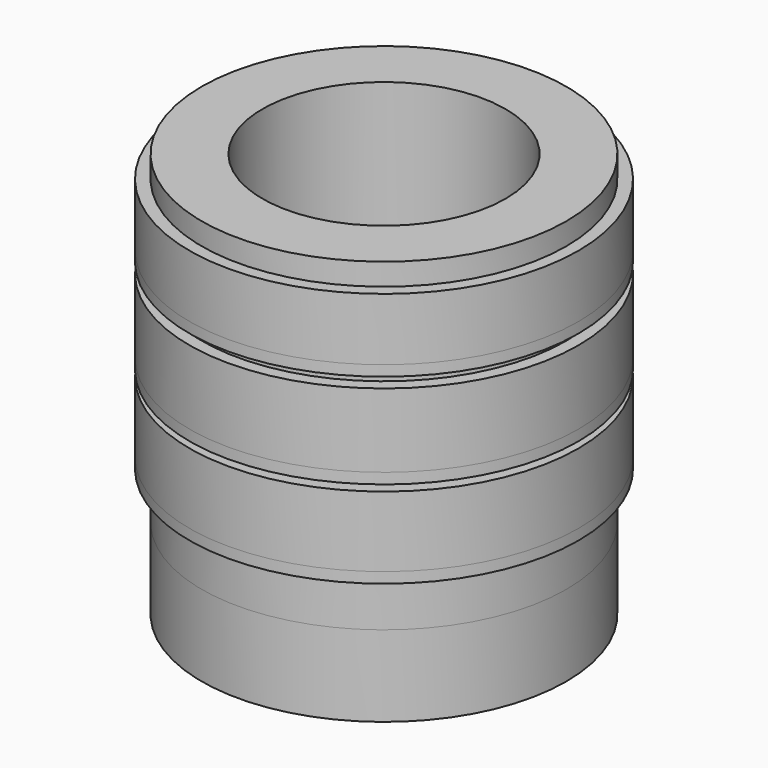
from build123d import *

# Parameters (mm, degrees)
F0_W   = 0.15
F0_H   = 0.861064
F0_H_2 = 0.869423
F0_H_3 = 0.911222
F2_W   = 0.15
F2_H   = 0.769407
F2_H_2 = 0.869423
F2_H_3 = 0.911223


with BuildPart() as f1:
    # F0 (on Front) → F1 (revolve)
    with BuildSketch(Plane.XZ):
        Polygon((2.25, 0), (1.5, 0), (1.5, -5), (2.25, -5), (2.25, -3.420459), (2.25, -2.551036), (2.25, -2.34204), (2.25, -1.430818), (2.25, -1.171663), (2.25, -0.310599), align=None)
        with Locations((2.325, -0.741131)):
            Rectangle(F0_W, F0_H)
        with Locations((2.325, -2.985747)):
            Rectangle(F0_W, F0_H_2)
        with Locations((2.325, -1.886429)):
            Rectangle(F0_W, F0_H_3)
    revolve(axis=Axis((0, 0, -0.518953), (0, 0, -1)))


with BuildPart() as f3:
    # F2 (on Front) → F3 (revolve)
    with BuildSketch(Plane.XZ):
        Polygon((2.25, 0), (1.5, 0), (1.5, -4), (2.25, -4), (2.25, -3.288985), (2.25, -2.419562), (2.25, -2.210566), (2.25, -1.299343), (2.25, -1.041357), (2.25, -0.27195), align=None)
        with Locations((2.325, -0.656653)):
            Rectangle(F2_W, F2_H)
        with Locations((2.325, -2.854273)):
            Rectangle(F2_W, F2_H_2)
        with Locations((2.325, -1.754954)):
            Rectangle(F2_W, F2_H_3)
    revolve(axis=Axis((0, 0, -2.329817), (0, 0, -1)))


solid = Compound([f1.part, f3.part])
